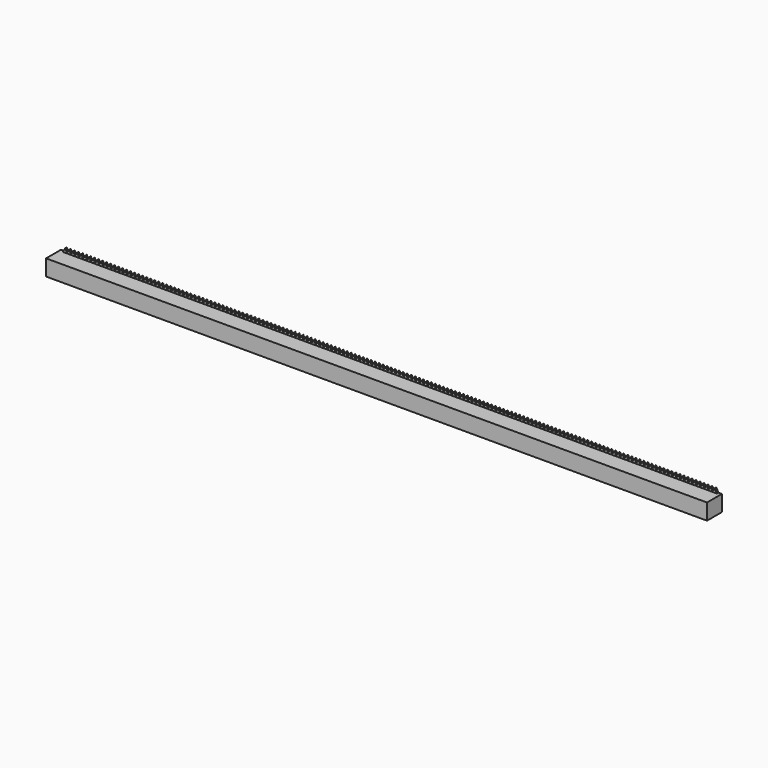
from build123d import *

# Parameters (mm, degrees)
PAD015_DEPTH           = 1
SKETCH027_W            = 329.7
SKETCH027_H            = 8
PAD016_DEPTH           = 9.3
LINEARPATTERN004_COUNT = 82
LINEARPATTERN004_PITCH = 2
LINEARPATTERN005_COUNT = 82
LINEARPATTERN005_PITCH = 2


with BuildPart() as part:
    # Sketch026 → Pad015 (new body)
    with BuildSketch(Plane.XZ):
        Polygon((0, 1.5), (-1.299038, -0.75), (1.299038, -0.75), align=None)
    pad015 = extrude(amount=PAD015_DEPTH)

    # Sketch027 → Pad016 (join)
    with BuildSketch(Plane.XZ):
        with Locations((0, -4.5)):
            Rectangle(SKETCH027_W, SKETCH027_H)
    extrude(amount=PAD016_DEPTH)

    # LinearPattern004: Pad015 ×82
    with Locations(*[(i * LINEARPATTERN004_PITCH, 0, 0) for i in range(1, LINEARPATTERN004_COUNT)]):
        add(pad015)

    # LinearPattern005: Pad015 ×82
    with Locations(*[(-i * LINEARPATTERN005_PITCH, 0, 0) for i in range(1, LINEARPATTERN005_COUNT)]):
        add(pad015)


solid = part.part
